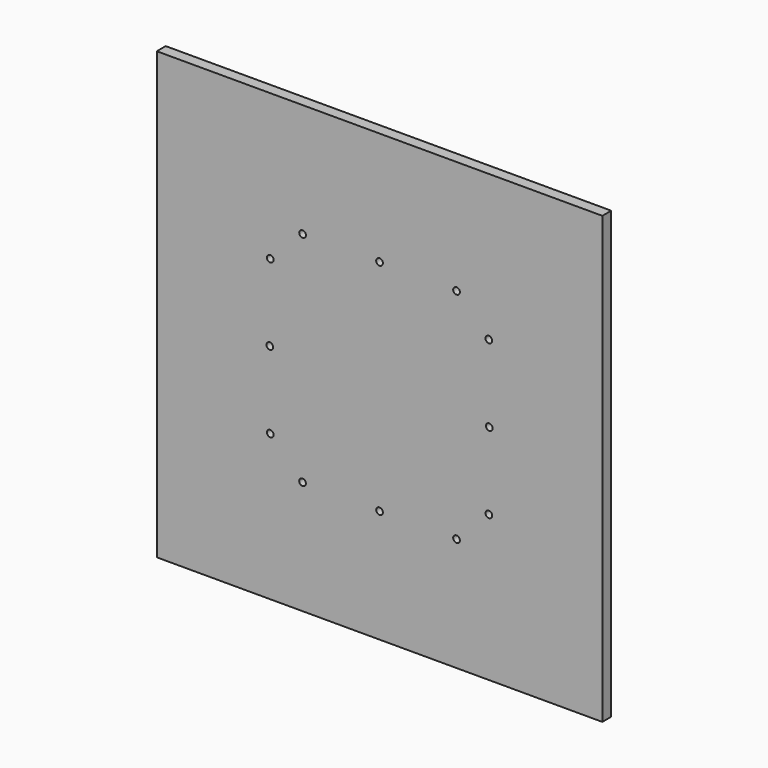
from build123d import *

# Parameters (mm, degrees)
F0_W     = 200
F0_H     = 200
F0_R     = 1.5
F1_DEPTH = 5


with BuildPart() as f1:
    # F0 (on Front) → F1 (new body)
    with BuildSketch(Plane.XZ):
        Rectangle(F0_W, F0_H)
        with Locations((-34.554892, -49.050581)):
            Circle(F0_R, mode=Mode.SUBTRACT)
        with Locations((-49.050581, -34.554892)):
            Circle(F0_R, mode=Mode.SUBTRACT)
        with Locations((0, -49.25)):
            Circle(F0_R, mode=Mode.SUBTRACT)
        with Locations((34.554892, -49.050581)):
            Circle(F0_R, mode=Mode.SUBTRACT)
        with Locations((49.050581, -34.554892)):
            Circle(F0_R, mode=Mode.SUBTRACT)
        with Locations((-49.25, 0)):
            Circle(F0_R, mode=Mode.SUBTRACT)
        with Locations((-49.050581, 34.554892)):
            Circle(F0_R, mode=Mode.SUBTRACT)
        with Locations((-34.554892, 49.050581)):
            Circle(F0_R, mode=Mode.SUBTRACT)
        with Locations((49.25, 0)):
            Circle(F0_R, mode=Mode.SUBTRACT)
        with Locations((0, 49.25)):
            Circle(F0_R, mode=Mode.SUBTRACT)
        with Locations((49.050581, 34.554892)):
            Circle(F0_R, mode=Mode.SUBTRACT)
        with Locations((34.554892, 49.050581)):
            Circle(F0_R, mode=Mode.SUBTRACT)
    extrude(amount=F1_DEPTH)


solid = f1.part
